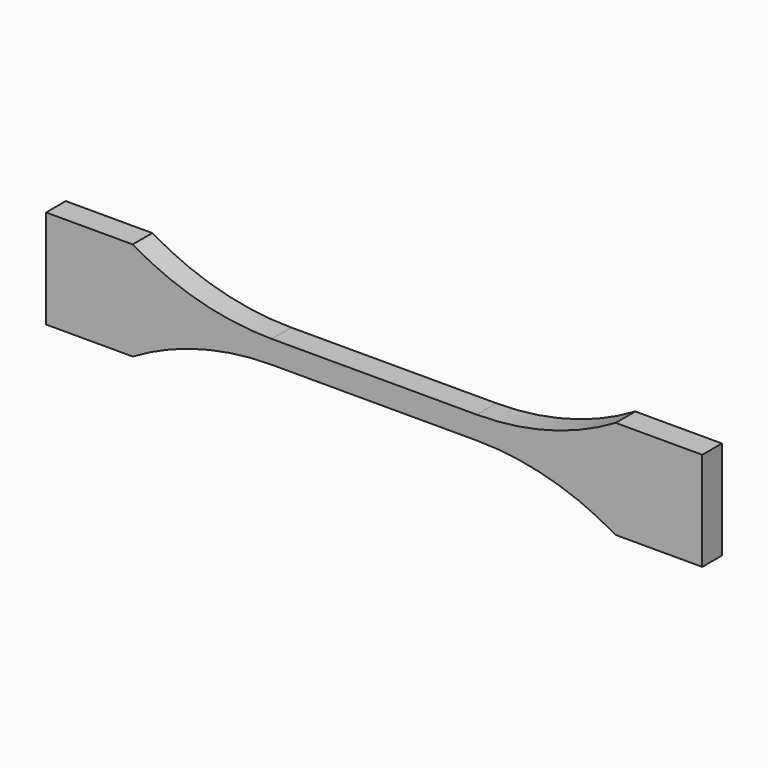
from build123d import *

# Parameters (mm, degrees)
F1_DEPTH = 6.858


with BuildPart() as f1:
    # F0 (on Front) → F1 (new body)
    with BuildSketch(Plane.XZ):
        with BuildLine():
            Line((28.575, 3.175), (0, 3.175))
            Line((0, 3.175), (-28.575, 3.175))
            ThreePointArc((-28.575, 3.175), (-48.6519, 5.867462), (-67.31, 13.754578))
            Line((-67.31, 13.754578), (-91.44, 13.754578))
            Line((-91.44, 13.754578), (-91.44, -13.754578))
            Line((-91.44, -13.754578), (-67.31, -13.754578))
            ThreePointArc((-67.31, -13.754578), (-48.6519, -5.867462), (-28.575, -3.175))
            Line((-28.575, -3.175), (0, -3.175))
            Line((0, -3.175), (28.575, -3.175))
            ThreePointArc((28.575, -3.175), (48.6519, -5.867462), (67.31, -13.754578))
            Line((67.31, -13.754578), (91.44, -13.754578))
            Line((91.44, -13.754578), (91.44, 13.754578))
            Line((91.44, 13.754578), (67.31, 13.754578))
            ThreePointArc((67.31, 13.754578), (48.6519, 5.867462), (28.575, 3.175))
        make_face()
    extrude(amount=F1_DEPTH)


solid = f1.part
